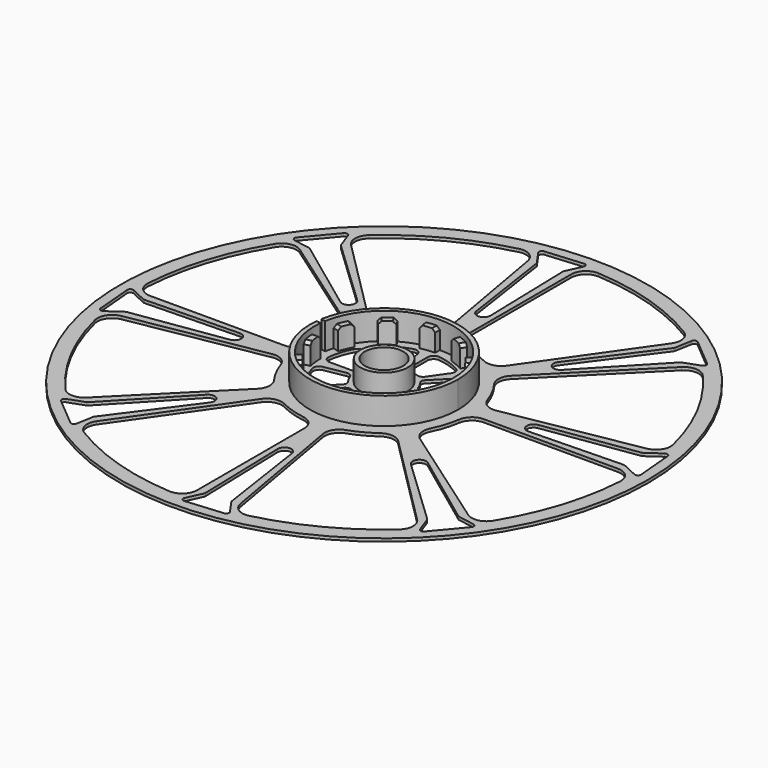
from build123d import *

# Parameters (mm, degrees)
F0_R      = 89
F0_R_2    = 6.5
F1_DEPTH  = 1
F2_R      = 25
F2_R_2    = 23.5
F3_DEPTH  = 9
F5_DEPTH  = 1
F6_R      = 8
F6_R_2    = 6.5
F7_DEPTH  = 7
F9_DEPTH  = 7
F11_DEPTH = 9
F12_SIZE  = 1


with BuildPart() as f1:
    # F0 (on Top) → F1 (new body)
    with BuildSketch(Plane.XY):
        Circle(F0_R)
        Circle(F0_R_2, mode=Mode.SUBTRACT)
    extrude(amount=F1_DEPTH)

    # F2 (on face) → F3 (join)
    with BuildSketch(Plane.XY.offset(1)):
        Circle(F2_R)
        Circle(F2_R_2, mode=Mode.SUBTRACT)
    extrude(amount=F3_DEPTH)

    # F4 (on face) → F5 (cut, through all)
    with BuildSketch(Plane.XY.offset(1)):
        with BuildLine():
            ThreePointArc((-83.8315889079, 5.3164556962), (-82.4873148521, 1.5781787365), (-78.8416133777, 0))
            Line((-78.8416133777, 0), (-33.6303434416, 0))
            ThreePointArc((-33.6303434416, 0), (-30.3651076605, 1.2134137678), (-28.6847047002, 4.2647058824))
            ThreePointArc((-28.6847047002, 4.2647058824), (-27.6577915717, 8.7204681856), (-25.9432692971, 12.9594281579))
            ThreePointArc((-25.9432692971, 12.9594281579), (-25.5696255599, 16.4227398729), (-27.5483645803, 19.2895725445))
            Line((-27.5483645803, 19.2895725445), (-64.5832687734, 45.2216916374))
            ThreePointArc((-64.5832687734, 45.2216916374), (-68.4748587246, 46.0200117588), (-71.7202111422, 43.7288384675))
            ThreePointArc((-71.7202111422, 43.7288384675), (-80.1122238629, 25.2592871584), (-83.8315889079, 5.3164556962))
        make_face()
        with BuildLine():
            ThreePointArc((-81.6348058606, -19.792889433), (-74.508909987, -38.7868835117), (-63.0371868691, -55.5185831198))
            ThreePointArc((-63.0371868691, -55.5185831198), (-59.4432805803, -57.2113988073), (-55.7494394591, -55.7494394591))
            Line((-55.7494394591, -55.7494394591), (-23.7802439012, -23.7802439012))
            ThreePointArc((-23.7802439012, -23.7802439012), (-22.3293866418, -20.6133604347), (-23.298751659, -17.2675467607))
            ThreePointArc((-23.298751659, -17.2675467607), (-25.7233141622, -13.3907097838), (-27.5083611769, -9.1809621154))
            ThreePointArc((-27.5083611769, -9.1809621154), (-29.6930863556, -6.467824896), (-33.1194229578, -5.8398478529))
            Line((-33.1194229578, -5.8398478529), (-77.6438321144, -13.6907024874))
            ThreePointArc((-77.6438321144, -13.6907024874), (-80.9600993299, -15.87797456), (-81.6348058606, -19.792889433))
        make_face()
        with BuildLine():
            ThreePointArc((-43.7288384675, -71.7202111422), (-25.2592871584, -80.1122238629), (-5.3164556962, -83.8315889079))
            ThreePointArc((-5.3164556962, -83.8315889079), (-1.5781787365, -82.4873148521), (0, -78.8416133777))
            Line((0, -78.8416133777), (0, -33.6303434416))
            ThreePointArc((0, -33.6303434416), (-1.2134137678, -30.3651076605), (-4.2647058824, -28.6847047002))
            ThreePointArc((-4.2647058824, -28.6847047002), (-8.7204681856, -27.6577915717), (-12.9594281579, -25.9432692971))
            ThreePointArc((-12.9594281579, -25.9432692971), (-16.4227398729, -25.5696255599), (-19.2895725445, -27.5483645803))
            Line((-19.2895725445, -27.5483645803), (-45.2216916374, -64.5832687734))
            ThreePointArc((-45.2216916374, -64.5832687734), (-46.0200117588, -68.4748587246), (-43.7288384675, -71.7202111422))
        make_face()
        with BuildLine():
            ThreePointArc((19.792889433, -81.6348058606), (38.7868835117, -74.508909987), (55.5185831198, -63.0371868691))
            ThreePointArc((55.5185831198, -63.0371868691), (57.2113988073, -59.4432805803), (55.7494394591, -55.7494394591))
            Line((55.7494394591, -55.7494394591), (23.7802439012, -23.7802439012))
            ThreePointArc((23.7802439012, -23.7802439012), (20.6133604347, -22.3293866418), (17.2675467607, -23.298751659))
            ThreePointArc((17.2675467607, -23.298751659), (13.3907097838, -25.7233141622), (9.1809621154, -27.5083611769))
            ThreePointArc((9.1809621154, -27.5083611769), (6.467824896, -29.6930863556), (5.8398478529, -33.1194229578))
            Line((5.8398478529, -33.1194229578), (13.6907024874, -77.6438321144))
            ThreePointArc((13.6907024874, -77.6438321144), (15.87797456, -80.9600993299), (19.792889433, -81.6348058606))
        make_face()
        with BuildLine():
            ThreePointArc((71.7202111422, -43.7288384675), (80.1122238629, -25.2592871584), (83.8315889079, -5.3164556962))
            ThreePointArc((83.8315889079, -5.3164556962), (82.4873148521, -1.5781787365), (78.8416133777, 0))
            Line((78.8416133777, 0), (33.6303434416, 0))
            ThreePointArc((33.6303434416, 0), (30.3651076605, -1.2134137678), (28.6847047002, -4.2647058824))
            ThreePointArc((28.6847047002, -4.2647058824), (27.6577915717, -8.7204681856), (25.9432692971, -12.9594281579))
            ThreePointArc((25.9432692971, -12.9594281579), (25.5696255599, -16.4227398729), (27.5483645803, -19.2895725445))
            Line((27.5483645803, -19.2895725445), (64.5832687734, -45.2216916374))
            ThreePointArc((64.5832687734, -45.2216916374), (68.4748587246, -46.0200117588), (71.7202111422, -43.7288384675))
        make_face()
        with BuildLine():
            ThreePointArc((81.6348058606, 19.792889433), (74.508909987, 38.7868835117), (63.0371868691, 55.5185831198))
            ThreePointArc((63.0371868691, 55.5185831198), (59.4432805803, 57.2113988073), (55.7494394591, 55.7494394591))
            Line((55.7494394591, 55.7494394591), (23.7802439012, 23.7802439012))
            ThreePointArc((23.7802439012, 23.7802439012), (22.3293866418, 20.6133604347), (23.298751659, 17.2675467607))
            ThreePointArc((23.298751659, 17.2675467607), (25.7233141622, 13.3907097838), (27.5083611769, 9.1809621154))
            ThreePointArc((27.5083611769, 9.1809621154), (29.6930863556, 6.467824896), (33.1194229578, 5.8398478529))
            Line((33.1194229578, 5.8398478529), (77.6438321144, 13.6907024874))
            ThreePointArc((77.6438321144, 13.6907024874), (80.9600993299, 15.87797456), (81.6348058606, 19.792889433))
        make_face()
        with BuildLine():
            ThreePointArc((43.7288384675, 71.7202111422), (25.2592871584, 80.1122238629), (5.3164556962, 83.8315889079))
            ThreePointArc((5.3164556962, 83.8315889079), (1.5781787365, 82.4873148521), (0, 78.8416133777))
            Line((0, 78.8416133777), (0, 33.6303434416))
            ThreePointArc((0, 33.6303434416), (1.2134137678, 30.3651076605), (4.2647058824, 28.6847047002))
            ThreePointArc((4.2647058824, 28.6847047002), (8.7204681856, 27.6577915717), (12.9594281579, 25.9432692971))
            ThreePointArc((12.9594281579, 25.9432692971), (16.4227398729, 25.5696255599), (19.2895725445, 27.5483645803))
            Line((19.2895725445, 27.5483645803), (45.2216916374, 64.5832687734))
            ThreePointArc((45.2216916374, 64.5832687734), (46.0200117588, 68.4748587246), (43.7288384675, 71.7202111422))
        make_face()
        with BuildLine():
            ThreePointArc((-19.792889433, 81.6348058606), (-38.7868835117, 74.508909987), (-55.5185831198, 63.0371868691))
            ThreePointArc((-55.5185831198, 63.0371868691), (-57.2113988073, 59.4432805803), (-55.7494394591, 55.7494394591))
            Line((-55.7494394591, 55.7494394591), (-23.7802439012, 23.7802439012))
            ThreePointArc((-23.7802439012, 23.7802439012), (-20.6133604347, 22.3293866418), (-17.2675467607, 23.298751659))
            ThreePointArc((-17.2675467607, 23.298751659), (-13.3907097838, 25.7233141622), (-9.1809621154, 27.5083611769))
            ThreePointArc((-9.1809621154, 27.5083611769), (-6.467824896, 29.6930863556), (-5.8398478529, 33.1194229578))
            Line((-5.8398478529, 33.1194229578), (-13.6907024874, 77.6438321144))
            ThreePointArc((-13.6907024874, 77.6438321144), (-15.87797456, 80.9600993299), (-19.792889433, 81.6348058606))
        make_face()
        with BuildLine():
            ThreePointArc((-63.3286414944, 47.5008866446), (-63.1075458157, 47.4348701017), (-62.9074668854, 47.3199357522))
            Line((-62.9074668854, 47.3199357522), (-37.6037105307, 28.5961409978))
            ThreePointArc((-37.6037105307, 28.5961409978), (-34.5151986614, 28.9616904668), (-34.691517168, 32.0667579001))
            Line((-34.691517168, 32.0667579001), (-57.5248065871, 53.7347405004))
            ThreePointArc((-57.5248065871, 53.7347405004), (-57.6727381672, 53.9118216419), (-57.7761446322, 54.1180947281))
            Line((-57.7761446322, 54.1180947281), (-59.7328155593, 59.4940039177))
            ThreePointArc((-59.7328155593, 59.4940039177), (-60.4988600024, 60.1367915274), (-61.4385526232, 59.794771384))
            Line((-61.4385526232, 59.794771384), (-69.5550471501, 50.1219098724))
            ThreePointArc((-69.5550471501, 50.1219098724), (-69.7286953278, 49.1371021193), (-68.9626508847, 48.4943145097))
            Line((-68.9626508847, 48.4943145097), (-63.3286414944, 47.5008866446))
        make_face()
        with BuildLine():
            Line((-77.9425438776, -11.0220489662), (-46.8103639294, -6.3693134988))
            ThreePointArc((-46.8103639294, -6.3693134988), (-44.8849387512, -3.9269233038), (-47.205229001, -1.8559850773))
            Line((-47.205229001, -1.8559850773), (-78.6723802173, -2.6799814311))
            ThreePointArc((-78.6723802173, -2.6799814311), (-78.9021989167, -2.6593695786), (-79.1211754273, -2.5866318931))
            Line((-79.1211754273, -2.5866318931), (-84.3060925515, -0.1688653312))
            ThreePointArc((-84.3060925515, -0.1688653312), (-85.3022872496, -0.256021074), (-85.7249055113, -1.162328861))
            Line((-85.7249055113, -1.162328861), (-84.6243878624, -13.7413031488))
            ThreePointArc((-84.6243878624, -13.7413031488), (-84.050811426, -14.5604551931), (-83.0546167279, -14.4732994504))
            Line((-83.0546167279, -14.4732994504), (-78.3683109028, -11.1919127853))
            ThreePointArc((-78.3683109028, -11.1919127853), (-78.165291904, -11.0822552767), (-77.9425438776, -11.0220489662))
        make_face()
        with BuildLine():
            Line((-47.3199357522, -62.9074668854), (-28.5961409978, -37.6037105307))
            ThreePointArc((-28.5961409978, -37.6037105307), (-28.9616904668, -34.5151986614), (-32.0667579001, -34.691517168))
            Line((-32.0667579001, -34.691517168), (-53.7347405004, -57.5248065871))
            ThreePointArc((-53.7347405004, -57.5248065871), (-53.9118216419, -57.6727381672), (-54.1180947281, -57.7761446322))
            Line((-54.1180947281, -57.7761446322), (-59.4940039177, -59.7328155593))
            ThreePointArc((-59.4940039177, -59.7328155593), (-60.1367915274, -60.4988600024), (-59.794771384, -61.4385526232))
            Line((-59.794771384, -61.4385526232), (-50.1219098724, -69.5550471501))
            ThreePointArc((-50.1219098724, -69.5550471501), (-49.1371021193, -69.7286953278), (-48.4943145097, -68.9626508847))
            Line((-48.4943145097, -68.9626508847), (-47.5008866446, -63.3286414944))
            ThreePointArc((-47.5008866446, -63.3286414944), (-47.4348701017, -63.1075458157), (-47.3199357522, -62.9074668854))
        make_face()
        with BuildLine():
            Line((11.0220489662, -77.9425438776), (6.3693134988, -46.8103639294))
            ThreePointArc((6.3693134988, -46.8103639294), (3.9269233038, -44.8849387512), (1.8559850773, -47.205229001))
            Line((1.8559850773, -47.205229001), (2.6799814311, -78.6723802173))
            ThreePointArc((2.6799814311, -78.6723802173), (2.6593695786, -78.9021989167), (2.5866318931, -79.1211754273))
            Line((2.5866318931, -79.1211754273), (0.1688653312, -84.3060925515))
            ThreePointArc((0.1688653312, -84.3060925515), (0.256021074, -85.3022872496), (1.162328861, -85.7249055113))
            Line((1.162328861, -85.7249055113), (13.7413031488, -84.6243878624))
            ThreePointArc((13.7413031488, -84.6243878624), (14.5604551931, -84.050811426), (14.4732994504, -83.0546167279))
            Line((14.4732994504, -83.0546167279), (11.1919127853, -78.3683109028))
            ThreePointArc((11.1919127853, -78.3683109028), (11.0822552767, -78.165291904), (11.0220489662, -77.9425438776))
        make_face()
        with BuildLine():
            Line((62.9074668854, -47.3199357522), (37.6037105307, -28.5961409978))
            ThreePointArc((37.6037105307, -28.5961409978), (34.5151986614, -28.9616904668), (34.691517168, -32.0667579001))
            Line((34.691517168, -32.0667579001), (57.5248065871, -53.7347405004))
            ThreePointArc((57.5248065871, -53.7347405004), (57.6727381672, -53.9118216419), (57.7761446322, -54.1180947281))
            Line((57.7761446322, -54.1180947281), (59.7328155593, -59.4940039177))
            ThreePointArc((59.7328155593, -59.4940039177), (60.4988600024, -60.1367915274), (61.4385526232, -59.794771384))
            Line((61.4385526232, -59.794771384), (69.5550471501, -50.1219098724))
            ThreePointArc((69.5550471501, -50.1219098724), (69.7286953278, -49.1371021193), (68.9626508847, -48.4943145097))
            Line((68.9626508847, -48.4943145097), (63.3286414944, -47.5008866446))
            ThreePointArc((63.3286414944, -47.5008866446), (63.1075458157, -47.4348701017), (62.9074668854, -47.3199357522))
        make_face()
        with BuildLine():
            Line((77.9425438776, 11.0220489662), (46.8103639294, 6.3693134988))
            ThreePointArc((46.8103639294, 6.3693134988), (44.8849387512, 3.9269233038), (47.205229001, 1.8559850773))
            Line((47.205229001, 1.8559850773), (78.6723802173, 2.6799814311))
            ThreePointArc((78.6723802173, 2.6799814311), (78.9021989167, 2.6593695786), (79.1211754273, 2.5866318931))
            Line((79.1211754273, 2.5866318931), (84.3060925515, 0.1688653312))
            ThreePointArc((84.3060925515, 0.1688653312), (85.3022872496, 0.256021074), (85.7249055113, 1.162328861))
            Line((85.7249055113, 1.162328861), (84.6243878624, 13.7413031488))
            ThreePointArc((84.6243878624, 13.7413031488), (84.050811426, 14.5604551931), (83.0546167279, 14.4732994504))
            Line((83.0546167279, 14.4732994504), (78.3683109028, 11.1919127853))
            ThreePointArc((78.3683109028, 11.1919127853), (78.165291904, 11.0822552767), (77.9425438776, 11.0220489662))
        make_face()
        with BuildLine():
            Line((47.3199357522, 62.9074668854), (28.5961409978, 37.6037105307))
            ThreePointArc((28.5961409978, 37.6037105307), (28.9616904668, 34.5151986614), (32.0667579001, 34.691517168))
            Line((32.0667579001, 34.691517168), (53.7347405004, 57.5248065871))
            ThreePointArc((53.7347405004, 57.5248065871), (53.9118216419, 57.6727381672), (54.1180947281, 57.7761446322))
            Line((54.1180947281, 57.7761446322), (59.4940039177, 59.7328155593))
            ThreePointArc((59.4940039177, 59.7328155593), (60.1367915274, 60.4988600024), (59.794771384, 61.4385526232))
            Line((59.794771384, 61.4385526232), (50.1219098724, 69.5550471501))
            ThreePointArc((50.1219098724, 69.5550471501), (49.1371021193, 69.7286953278), (48.4943145097, 68.9626508847))
            Line((48.4943145097, 68.9626508847), (47.5008866446, 63.3286414944))
            ThreePointArc((47.5008866446, 63.3286414944), (47.4348701017, 63.1075458157), (47.3199357522, 62.9074668854))
        make_face()
        with BuildLine():
            Line((-11.0220489662, 77.9425438776), (-6.3693134988, 46.8103639294))
            ThreePointArc((-6.3693134988, 46.8103639294), (-3.9269233038, 44.8849387512), (-1.8559850773, 47.205229001))
            Line((-1.8559850773, 47.205229001), (-2.6799814311, 78.6723802173))
            ThreePointArc((-2.6799814311, 78.6723802173), (-2.6593695786, 78.9021989167), (-2.5866318931, 79.1211754273))
            Line((-2.5866318931, 79.1211754273), (-0.1688653312, 84.3060925515))
            ThreePointArc((-0.1688653312, 84.3060925515), (-0.256021074, 85.3022872496), (-1.162328861, 85.7249055113))
            Line((-1.162328861, 85.7249055113), (-13.7413031488, 84.6243878624))
            ThreePointArc((-13.7413031488, 84.6243878624), (-14.5604551931, 84.050811426), (-14.4732994504, 83.0546167279))
            Line((-14.4732994504, 83.0546167279), (-11.1919127853, 78.3683109028))
            ThreePointArc((-11.1919127853, 78.3683109028), (-11.0822552767, 78.165291904), (-11.0220489662, 77.9425438776))
        make_face()
        with BuildLine():
            ThreePointArc((-20.3798524451, 2.2162162162), (-19.8802703041, 0.6644163134), (-18.3915741577, 0))
            Line((-18.3915741577, 0), (-10.8972473589, 0))
            ThreePointArc((-10.8972473589, 0), (-9.9115542478, 0.3693324578), (-9.4112590826, 1.2954545455))
            ThreePointArc((-9.4112590826, 1.2954545455), (-9.1129660063, 2.6839989882), (-8.6110034985, 4.0125576319))
            ThreePointArc((-8.6110034985, 4.0125576319), (-8.4920643166, 5.3752044862), (-9.2766934675, 6.4956106956))
            Line((-9.2766934675, 6.4956106956), (-15.065495569, 10.5489735643))
            ThreePointArc((-15.065495569, 10.5489735643), (-16.666057602, 10.8585966133), (-17.9653671922, 9.8739850947))
            ThreePointArc((-17.9653671922, 9.8739850947), (-19.5511974903, 6.1644688898), (-20.3798524451, 2.2162162162))
        make_face()
        with BuildLine():
            ThreePointArc((-15.9778333786, -12.8436303484), (-14.5272872246, -13.5876606631), (-13.0048068036, -13.0048068036))
            Line((-13.0048068036, -13.0048068036), (-7.7055175037, -7.7055175037))
            ThreePointArc((-7.7055175037, -7.7055175037), (-7.2696847062, -6.7473697353), (-7.5707898107, -5.738740423))
            ThreePointArc((-7.5707898107, -5.738740423), (-8.341713945, -4.5459661745), (-8.926205678, -3.2515922552))
            ThreePointArc((-8.926205678, -3.2515922552), (-9.805639807, -2.2039527221), (-11.1527032287, -1.9665224871))
            Line((-11.1527032287, -1.9665224871), (-18.1121648207, -3.1936633369))
            ThreePointArc((-18.1121648207, -3.1936633369), (-19.4628696454, -4.1064950465), (-19.6853947859, -5.7214711503))
            ThreePointArc((-19.6853947859, -5.7214711503), (-18.1837220802, -9.4658465713), (-15.9778333786, -12.8436303484))
        make_face()
        with BuildLine():
            ThreePointArc((-2.2162162162, -20.3798524451), (-0.6644163134, -19.8802703041), (0, -18.3915741577))
            Line((0, -18.3915741577), (0, -10.8972473589))
            ThreePointArc((0, -10.8972473589), (-0.3693324578, -9.9115542478), (-1.2954545455, -9.4112590826))
            ThreePointArc((-1.2954545455, -9.4112590826), (-2.6839989882, -9.1129660063), (-4.0125576319, -8.6110034985))
            ThreePointArc((-4.0125576319, -8.6110034985), (-5.3752044862, -8.4920643166), (-6.4956106956, -9.2766934675))
            Line((-6.4956106956, -9.2766934675), (-10.5489735643, -15.065495569))
            ThreePointArc((-10.5489735643, -15.065495569), (-10.8585966133, -16.666057602), (-9.8739850947, -17.9653671922))
            ThreePointArc((-9.8739850947, -17.9653671922), (-6.1644688898, -19.5511974903), (-2.2162162162, -20.3798524451))
        make_face()
        with BuildLine():
            ThreePointArc((12.8436303484, -15.9778333786), (13.5876606631, -14.5272872246), (13.0048068036, -13.0048068036))
            Line((13.0048068036, -13.0048068036), (7.7055175037, -7.7055175037))
            ThreePointArc((7.7055175037, -7.7055175037), (6.7473697353, -7.2696847062), (5.738740423, -7.5707898107))
            ThreePointArc((5.738740423, -7.5707898107), (4.5459661745, -8.341713945), (3.2515922552, -8.926205678))
            ThreePointArc((3.2515922552, -8.926205678), (2.2039527221, -9.805639807), (1.9665224871, -11.1527032287))
            Line((1.9665224871, -11.1527032287), (3.1936633369, -18.1121648207))
            ThreePointArc((3.1936633369, -18.1121648207), (4.1064950465, -19.4628696454), (5.7214711503, -19.6853947859))
            ThreePointArc((5.7214711503, -19.6853947859), (9.4658465713, -18.1837220802), (12.8436303484, -15.9778333786))
        make_face()
        with BuildLine():
            ThreePointArc((20.3798524451, -2.2162162162), (19.8802703041, -0.6644163134), (18.3915741577, 0))
            Line((18.3915741577, 0), (10.8972473589, 0))
            ThreePointArc((10.8972473589, 0), (9.9115542478, -0.3693324578), (9.4112590826, -1.2954545455))
            ThreePointArc((9.4112590826, -1.2954545455), (9.1129660063, -2.6839989882), (8.6110034985, -4.0125576319))
            ThreePointArc((8.6110034985, -4.0125576319), (8.4920643166, -5.3752044862), (9.2766934675, -6.4956106956))
            Line((9.2766934675, -6.4956106956), (15.065495569, -10.5489735643))
            ThreePointArc((15.065495569, -10.5489735643), (16.666057602, -10.8585966133), (17.9653671922, -9.8739850947))
            ThreePointArc((17.9653671922, -9.8739850947), (19.5511974903, -6.1644688898), (20.3798524451, -2.2162162162))
        make_face()
        with BuildLine():
            ThreePointArc((15.9778333786, 12.8436303484), (14.5272872246, 13.5876606631), (13.0048068036, 13.0048068036))
            Line((13.0048068036, 13.0048068036), (7.7055175037, 7.7055175037))
            ThreePointArc((7.7055175037, 7.7055175037), (7.2696847062, 6.7473697353), (7.5707898107, 5.738740423))
            ThreePointArc((7.5707898107, 5.738740423), (8.341713945, 4.5459661745), (8.926205678, 3.2515922552))
            ThreePointArc((8.926205678, 3.2515922552), (9.805639807, 2.2039527221), (11.1527032287, 1.9665224871))
            Line((11.1527032287, 1.9665224871), (18.1121648207, 3.1936633369))
            ThreePointArc((18.1121648207, 3.1936633369), (19.4628696454, 4.1064950465), (19.6853947859, 5.7214711503))
            ThreePointArc((19.6853947859, 5.7214711503), (18.1837220802, 9.4658465713), (15.9778333786, 12.8436303484))
        make_face()
        with BuildLine():
            ThreePointArc((2.2162162162, 20.3798524451), (0.6644163134, 19.8802703041), (0, 18.3915741577))
            Line((0, 18.3915741577), (0, 10.8972473589))
            ThreePointArc((0, 10.8972473589), (0.3693324578, 9.9115542478), (1.2954545455, 9.4112590826))
            ThreePointArc((1.2954545455, 9.4112590826), (2.6839989882, 9.1129660063), (4.0125576319, 8.6110034985))
            ThreePointArc((4.0125576319, 8.6110034985), (5.3752044862, 8.4920643166), (6.4956106956, 9.2766934675))
            Line((6.4956106956, 9.2766934675), (10.5489735643, 15.065495569))
            ThreePointArc((10.5489735643, 15.065495569), (10.8585966133, 16.666057602), (9.8739850947, 17.9653671922))
            ThreePointArc((9.8739850947, 17.9653671922), (6.1644688898, 19.5511974903), (2.2162162162, 20.3798524451))
        make_face()
        with BuildLine():
            ThreePointArc((-12.8436303484, 15.9778333786), (-13.5876606631, 14.5272872246), (-13.0048068036, 13.0048068036))
            Line((-13.0048068036, 13.0048068036), (-7.7055175037, 7.7055175037))
            ThreePointArc((-7.7055175037, 7.7055175037), (-6.7473697353, 7.2696847062), (-5.738740423, 7.5707898107))
            ThreePointArc((-5.738740423, 7.5707898107), (-4.5459661745, 8.341713945), (-3.2515922552, 8.926205678))
            ThreePointArc((-3.2515922552, 8.926205678), (-2.2039527221, 9.805639807), (-1.9665224871, 11.1527032287))
            Line((-1.9665224871, 11.1527032287), (-3.1936633369, 18.1121648207))
            ThreePointArc((-3.1936633369, 18.1121648207), (-4.1064950465, 19.4628696454), (-5.7214711503, 19.6853947859))
            ThreePointArc((-5.7214711503, 19.6853947859), (-9.4658465713, 18.1837220802), (-12.8436303484, 15.9778333786))
        make_face()
    extrude(amount=-F5_DEPTH, mode=Mode.SUBTRACT)

    # F6 (on face) → F7 (join)
    with BuildSketch(Plane.XY.offset(1)):
        Circle(F6_R)
        Circle(F6_R_2, mode=Mode.SUBTRACT)
    extrude(amount=F7_DEPTH)

    # F8 (on face) → F9 (join)
    with BuildSketch(Plane.XY.offset(1)):
        with BuildLine():
            ThreePointArc((-20.3515969889, 11.75), (-21.5509117481, 9.3706031197), (-22.4731617651, 6.870735061))
            Line((-22.4731617651, 6.870735061), (-20.5605522532, 6.2859916515))
            ThreePointArc((-20.5605522532, 6.2859916515), (-19.7167915993, 8.5731049819), (-18.6195461814, 10.75))
            Line((-18.6195461814, 10.75), (-20.3515969889, 11.75))
        make_face()
        with BuildLine():
            ThreePointArc((-23.5, 0), (-23.3489386084, -2.6602755235), (-22.8976965225, -5.2863497771))
            Line((-22.8976965225, -5.2863497771), (-20.9489563929, -4.8364476684))
            ThreePointArc((-20.9489563929, -4.8364476684), (-21.361794897, -2.433869096), (-21.5, 0))
            Line((-21.5, 0), (-23.5, 0))
        make_face()
        with BuildLine():
            ThreePointArc((-20.3515969889, -11.75), (-18.8906362245, -13.9783354887), (-17.1868119881, -16.0269614615))
            Line((-17.1868119881, -16.0269614615), (-15.7241045848, -14.6629647413))
            ThreePointArc((-15.7241045848, -14.6629647413), (-17.2829225033, -12.7886899152), (-18.6195461814, -10.75))
            Line((-18.6195461814, -10.75), (-20.3515969889, -11.75))
        make_face()
        with BuildLine():
            ThreePointArc((-11.75, -20.3515969889), (-9.3706031197, -21.5509117481), (-6.870735061, -22.4731617651))
            Line((-6.870735061, -22.4731617651), (-6.2859916515, -20.5605522532))
            ThreePointArc((-6.2859916515, -20.5605522532), (-8.5731049819, -19.7167915993), (-10.75, -18.6195461814))
            Line((-10.75, -18.6195461814), (-11.75, -20.3515969889))
        make_face()
        with BuildLine():
            ThreePointArc((0, -23.5), (2.6602755235, -23.3489386084), (5.2863497771, -22.8976965225))
            Line((5.2863497771, -22.8976965225), (4.8364476684, -20.9489563929))
            ThreePointArc((4.8364476684, -20.9489563929), (2.433869096, -21.361794897), (0, -21.5))
            Line((0, -21.5), (0, -23.5))
        make_face()
        with BuildLine():
            ThreePointArc((11.75, -20.3515969889), (13.9783354887, -18.8906362245), (16.0269614615, -17.1868119881))
            Line((16.0269614615, -17.1868119881), (14.6629647413, -15.7241045848))
            ThreePointArc((14.6629647413, -15.7241045848), (12.7886899152, -17.2829225033), (10.75, -18.6195461814))
            Line((10.75, -18.6195461814), (11.75, -20.3515969889))
        make_face()
        with BuildLine():
            ThreePointArc((20.3515969889, -11.75), (21.5509117481, -9.3706031197), (22.4731617651, -6.870735061))
            Line((22.4731617651, -6.870735061), (20.5605522532, -6.2859916515))
            ThreePointArc((20.5605522532, -6.2859916515), (19.7167915993, -8.5731049819), (18.6195461814, -10.75))
            Line((18.6195461814, -10.75), (20.3515969889, -11.75))
        make_face()
        with BuildLine():
            ThreePointArc((23.5, 0), (23.3489386084, 2.6602755235), (22.8976965225, 5.2863497771))
            Line((22.8976965225, 5.2863497771), (20.9489563929, 4.8364476684))
            ThreePointArc((20.9489563929, 4.8364476684), (21.361794897, 2.433869096), (21.5, 0))
            Line((21.5, 0), (23.5, 0))
        make_face()
        with BuildLine():
            ThreePointArc((20.3515969889, 11.75), (18.8906362245, 13.9783354887), (17.1868119881, 16.0269614615))
            Line((17.1868119881, 16.0269614615), (15.7241045848, 14.6629647413))
            ThreePointArc((15.7241045848, 14.6629647413), (17.2829225033, 12.7886899152), (18.6195461814, 10.75))
            Line((18.6195461814, 10.75), (20.3515969889, 11.75))
        make_face()
        with BuildLine():
            ThreePointArc((11.75, 20.3515969889), (9.3706031197, 21.5509117481), (6.870735061, 22.4731617651))
            Line((6.870735061, 22.4731617651), (6.2859916515, 20.5605522532))
            ThreePointArc((6.2859916515, 20.5605522532), (8.5731049819, 19.7167915993), (10.75, 18.6195461814))
            Line((10.75, 18.6195461814), (11.75, 20.3515969889))
        make_face()
        with BuildLine():
            ThreePointArc((0, 23.5), (-2.6602755235, 23.3489386084), (-5.2863497771, 22.8976965225))
            Line((-5.2863497771, 22.8976965225), (-4.8364476684, 20.9489563929))
            ThreePointArc((-4.8364476684, 20.9489563929), (-2.433869096, 21.361794897), (0, 21.5))
            Line((0, 21.5), (0, 23.5))
        make_face()
        with BuildLine():
            ThreePointArc((-11.75, 20.3515969889), (-13.9783354887, 18.8906362245), (-16.0269614615, 17.1868119881))
            Line((-16.0269614615, 17.1868119881), (-14.6629647413, 15.7241045848))
            ThreePointArc((-14.6629647413, 15.7241045848), (-12.7886899152, 17.2829225033), (-10.75, 18.6195461814))
            Line((-10.75, 18.6195461814), (-11.75, 20.3515969889))
        make_face()
    extrude(amount=F9_DEPTH)

    # F10 (on face) → F11 (cut, through all)
    with BuildSketch(Plane.XY.offset(10)):
        Polygon((-25.6605194421, 4.5246419166), (-25.8577782756, 2.7177620113), (-22.8742125895, 2.4041766215), (-22.706096183, 4.0036973836), align=None)
    extrude(amount=-F11_DEPTH, mode=Mode.SUBTRACT)

    # F12
    f12_edges = [f1.edges().sort_by_distance(p)[0] for p in [
        (-22.5, 0, 8),
        (-21.923326, -5.061399, 8),
        (-19.485572, -11.25, 8),
        (-11.25, -19.485572, 8),
        (-16.455458, -15.344963, 8),
        (-6.578363, -21.516857, 8),
        (0, -22.5, 8),
        (5.061399, -21.923326, 8),
        (11.25, -19.485572, 8),
        (15.344963, -16.455458, 8),
        (19.485572, -11.25, 8),
        (21.516857, -6.578363, 8),
        (-21.516857, 6.578363, 8),
        (-19.485572, 11.25, 8),
        (-15.344963, 16.455458, 8),
        (-11.25, 19.485572, 8),
        (-5.061399, 21.923326, 8),
        (0, 22.5, 8),
        (6.578363, 21.516857, 8),
        (11.25, 19.485572, 8),
        (16.455458, 15.344963, 8),
        (19.485572, 11.25, 8),
        (21.923326, 5.061399, 8),
        (22.5, 0, 8),
    ]]
    chamfer(f12_edges, length=F12_SIZE)


solid = f1.part
